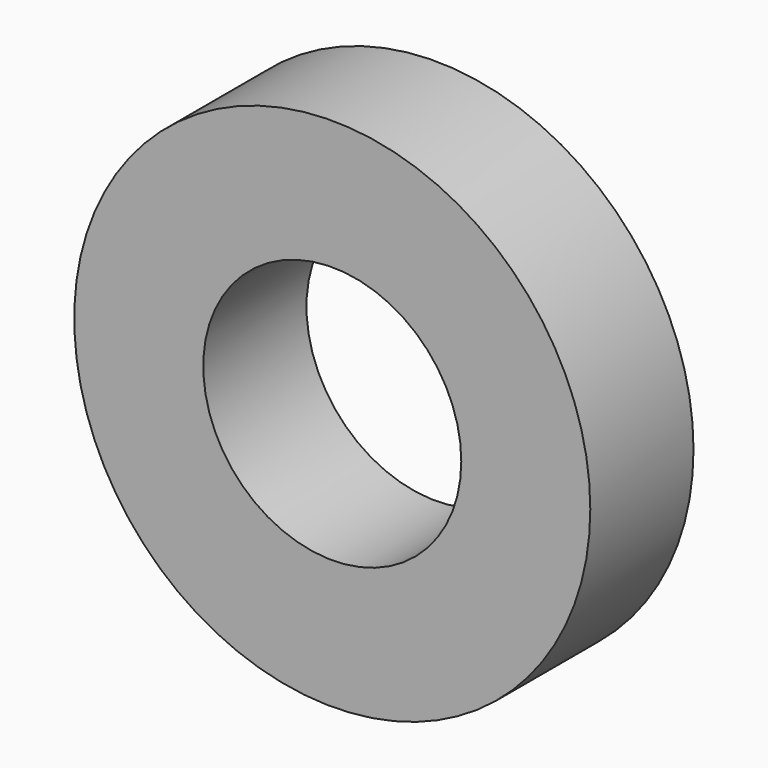
from build123d import *

# Parameters (mm, degrees)
F0_R          = 25.4
F1_DEPTH      = 12.7
F2_R          = 12.7
F3_DEPTH      = 25.4
F3_DEPTH_BACK = 25.4


with BuildPart() as f1:
    # F0 (on Front) → F1 (new body)
    with BuildSketch(Plane.XZ):
        Circle(F0_R)
    extrude(amount=F1_DEPTH)

    # F2 (on face) → F3 (cut, two sides)
    with BuildSketch(Plane.XZ.offset(12.7)) as f3_sk:
        Circle(F2_R)
    extrude(amount=-F3_DEPTH, mode=Mode.SUBTRACT)
    extrude(f3_sk.sketch, amount=-F3_DEPTH_BACK, mode=Mode.SUBTRACT)


solid = f1.part
